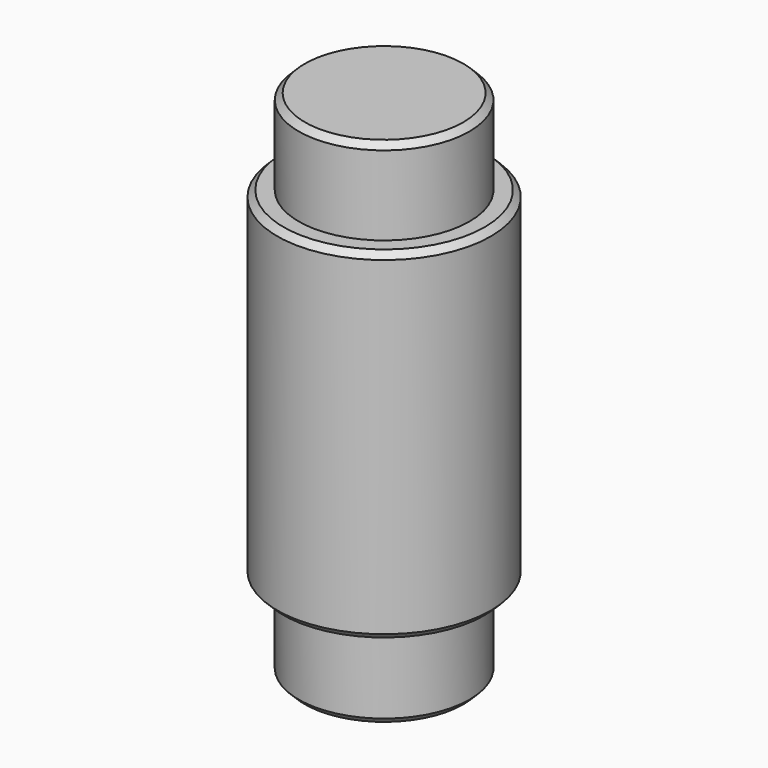
from build123d import *

# Parameters (mm, degrees)
F0_R     = 3.175
F1_DEPTH = 3.175
F2_R     = 3.96875
F3_DEPTH = 12.7
F4_R     = 3.175
F5_DEPTH = 3.175
F6_SIZE  = 0.2286


with BuildPart() as f1:
    # F0 (on Top) → F1 (new body)
    with BuildSketch(Plane.XY):
        Circle(F0_R)
    extrude(amount=F1_DEPTH)

    # F2 (on face) → F3 (join)
    with BuildSketch(Plane.XY.offset(3.175)):
        Circle(F2_R)
    extrude(amount=F3_DEPTH)

    # F4 (on face) → F5 (join)
    with BuildSketch(Plane.XY.offset(15.875)):
        Circle(F4_R)
    extrude(amount=F5_DEPTH)

    # F6
    f6_edges = [f1.edges().sort_by_distance(p)[0] for p in [
        (-3.175, 0, 19.05),
        (-3.96875, 0, 15.875),
        (-3.96875, 0, 3.175),
        (-3.175, 0, 0),
    ]]
    chamfer(f6_edges, length=F6_SIZE)


solid = f1.part
